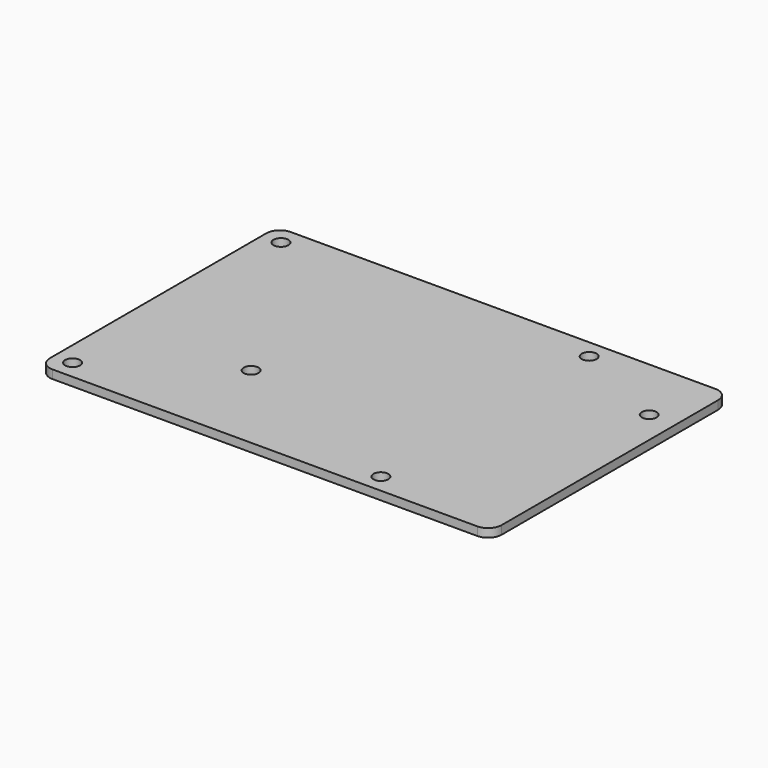
from build123d import *

# Parameters (mm, degrees)
F0_W     = 85
F0_H     = 56
F1_DEPTH = 1.6002
F2_R     = 1.397
F3_DEPTH = 25.4
F4_R     = 1.397
F5_DEPTH = 25.4
F6_R     = 2.54


with BuildPart() as f1:
    # F0 (on Top) → F1 (new body)
    with BuildSketch(Plane.XY):
        Rectangle(F0_W, F0_H)
    extrude(amount=F1_DEPTH)

    # F2 (on face) → F3 (cut)
    with BuildSketch(Plane.XY.offset(1.6002)):
        with Locations((-38.9948, 24.5)):
            Circle(F2_R)
        with Locations((-38.9948, -24.4948)):
            Circle(F2_R)
        with Locations((19.0052, 24.4948)):
            Circle(F2_R)
        with Locations((19.0052, -24.4948)):
            Circle(F2_R)
    extrude(amount=-F3_DEPTH, mode=Mode.SUBTRACT)

    # F4 (on face) → F5 (cut)
    with BuildSketch(Plane.XY.offset(1.6002)):
        with Locations((-17, -10)):
            Circle(F4_R)
        with Locations((37.5, 15.5)):
            Circle(F4_R)
    extrude(amount=-F5_DEPTH, mode=Mode.SUBTRACT)

    # F6
    f6_edges = [f1.edges().sort_by_distance(p)[0] for p in [
        (-42.5, -28, 0.8001),
        (42.5, -28, 0.8001),
        (42.5, 28, 0.8001),
        (-42.5, 28, 0.8001),
    ]]
    fillet(f6_edges, radius=F6_R)


solid = f1.part
